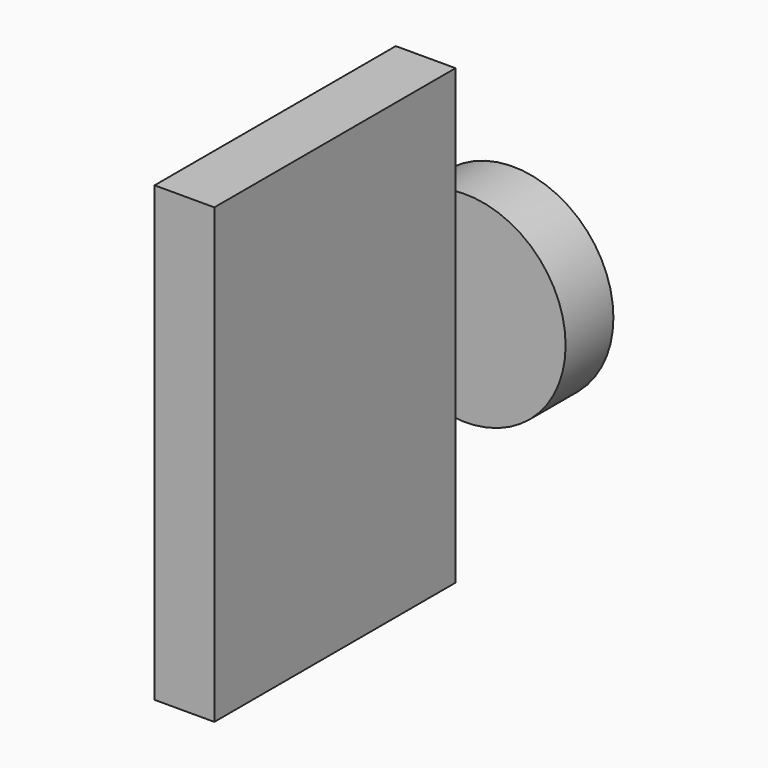
from build123d import *

# Parameters (mm, degrees)
F0_R     = 42.684789
F1_DEPTH = 25.4
F2_W     = 128.160652
F2_H     = 192.559779
F3_DEPTH = 12.7


with BuildPart() as f1:
    # F0 (on Front) → F1 (new body)
    with BuildSketch(Plane.XZ):
        Circle(F0_R)
    extrude(amount=F1_DEPTH)


with BuildPart() as f3:
    # F2 (on Right) → F3 (new body, symmetric)
    with BuildSketch(Plane.YZ):
        with Locations((-110.496538, 6.217853)):
            Rectangle(F2_W, F2_H)
    extrude(amount=F3_DEPTH, both=True)


solid = Compound([f1.part, f3.part])
